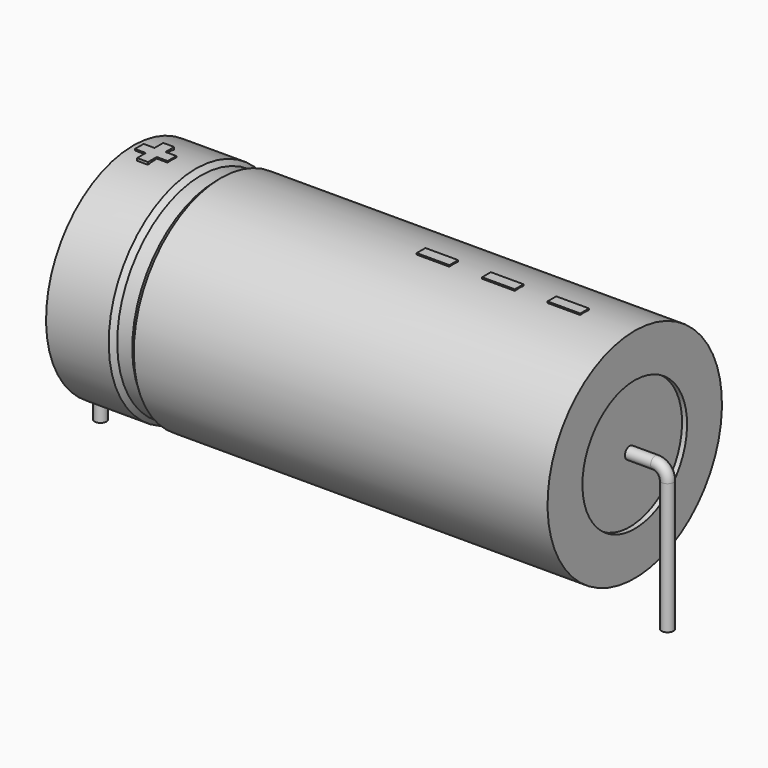
from build123d import *

# Parameters (mm, degrees)
SKETCH_R    = 0.55
SKETCH004_W = 3
SKETCH004_H = 1
PAD_DEPTH   = 10.1


with BuildPart() as sweep_body:
    # Sweep: sweep along a path in Sketch001
    with BuildLine(Plane.XZ) as sweep_path:
        Line((0, -3), (0, 9))
        ThreePointArc((0, 9), (0.322178, 9.777813), (1.099987, 10.1))
        Line((1.099987, 10.1), (50.9, 10.1))
        ThreePointArc((50.9, 10.1), (51.677817, 9.777817), (52, 9))
        Line((52, 9), (52, -3))
    # Sketch → Sweep (sweep)
    with BuildSketch(Plane.XY.offset(-2)):
        Circle(SKETCH_R)
    sweep(path=sweep_path.line)


with BuildPart() as revolution:
    # Sketch002 → Revolution (revolve)
    with BuildSketch(Plane.XZ):
        Polygon((3, 20.1), (3, 16.1), (49, 16.1), (49, 20.1), (11.05, 20.1), (10.59, 19.7), (9.21, 19.7), (8.75, 20.1), align=None)
    revolve(axis=Axis((6.97588, 0, 10.1), (1, 0, 0)))


with BuildPart() as revolution001:
    # Sketch003 → Revolution001 (revolve)
    with BuildSketch(Plane.XZ):
        Polygon((3.46, 19.7), (5.76, 19.7), (5.76, 11.1), (46.24, 11.1), (46.24, 19.7), (48.54, 19.7), (48.54, 10.1), (3.46, 10.1), align=None)
    revolve(axis=Axis((6.97588, 0, 10.1), (1, 0, 0)))


with BuildPart() as pad:
    # Sketch004 → Pad (new body)
    with BuildSketch(Plane.XY.offset(10.1)):
        with Locations((42.9, 0)):
            Rectangle(SKETCH004_W, SKETCH004_H)
        with Locations((36.9, 0)):
            Rectangle(SKETCH004_W, SKETCH004_H)
        with Locations((30.9, 0)):
            Rectangle(SKETCH004_W, SKETCH004_H)
        Polygon((4.552, 0.5), (3.552, 0.5), (3.552, -0.5), (4.552, -0.5), (4.552, -1.5), (5.552, -1.5), (5.552, -0.5), (6.552, -0.5), (6.552, 0.5), (5.552, 0.5), (5.552, 1.5), (4.552, 1.5), align=None)
    extrude(amount=PAD_DEPTH)


solid = Compound([sweep_body.part, revolution.part, revolution001.part, pad.part])
